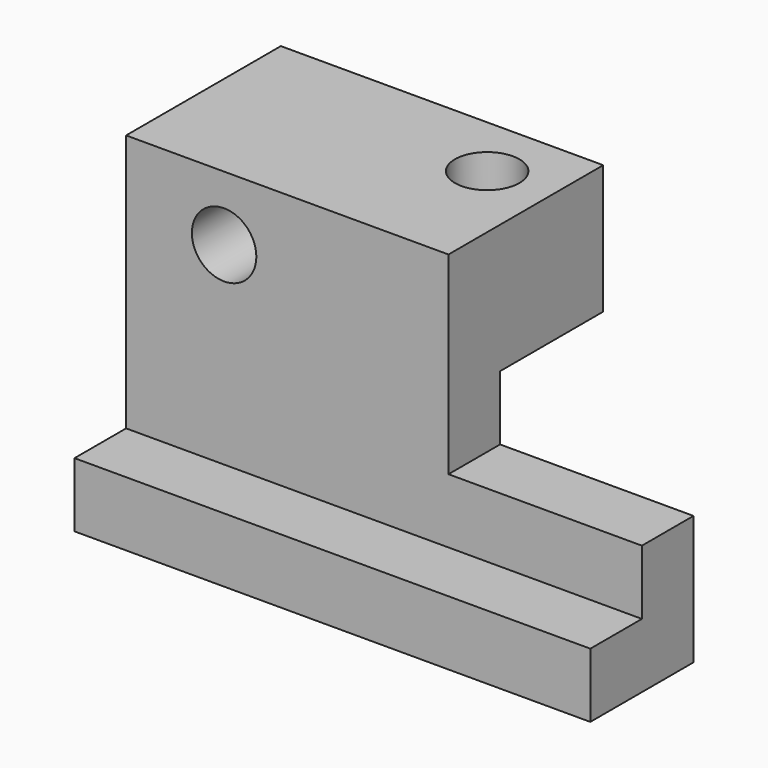
from build123d import *

# Parameters (mm, degrees)
F1_DEPTH = 6.35
F2_W     = 50.8
F2_H     = 6.35
F3_DEPTH = 12.7
F4_W     = 31.75
F4_H     = 12.7
F5_DEPTH = 12.7
F6_R     = 3.175
F7_DEPTH = 25.4
F8_R     = 3.175
F9_DEPTH = 25.4


with BuildPart() as f1:
    # F0 (on Front) → F1 (new body)
    with BuildSketch(Plane.XZ):
        Polygon((19.05, 0), (0, 0), (0, 19.05), (-31.75, 19.05), (-31.75, -6.35), (19.05, -6.35), align=None)
    extrude(amount=F1_DEPTH)

    # F2 (on Front) → F3 (join)
    with BuildSketch(Plane.XZ):
        with Locations((-6.35, -9.525)):
            Rectangle(F2_W, F2_H)
    extrude(amount=F3_DEPTH)

    # F4 (on face) → F5 (join)
    with BuildSketch(Plane(origin=(0, 0, 0), x_dir=(-1, 0, 0), z_dir=(0, 1, 0))):
        with Locations((15.875, 12.7)):
            Rectangle(F4_W, F4_H)
    extrude(amount=F5_DEPTH)

    # F6 (on face) → F7 (cut)
    with BuildSketch(Plane.XZ.offset(6.35)):
        with Locations((-22.098, 12.7)):
            Circle(F6_R)
    extrude(amount=-F7_DEPTH, mode=Mode.SUBTRACT)

    # F8 (on face) → F9 (cut)
    with BuildSketch(Plane.XY.offset(19.05)):
        with Locations((-6.35, 6.35)):
            Circle(F8_R)
    extrude(amount=-F9_DEPTH, mode=Mode.SUBTRACT)


solid = f1.part
